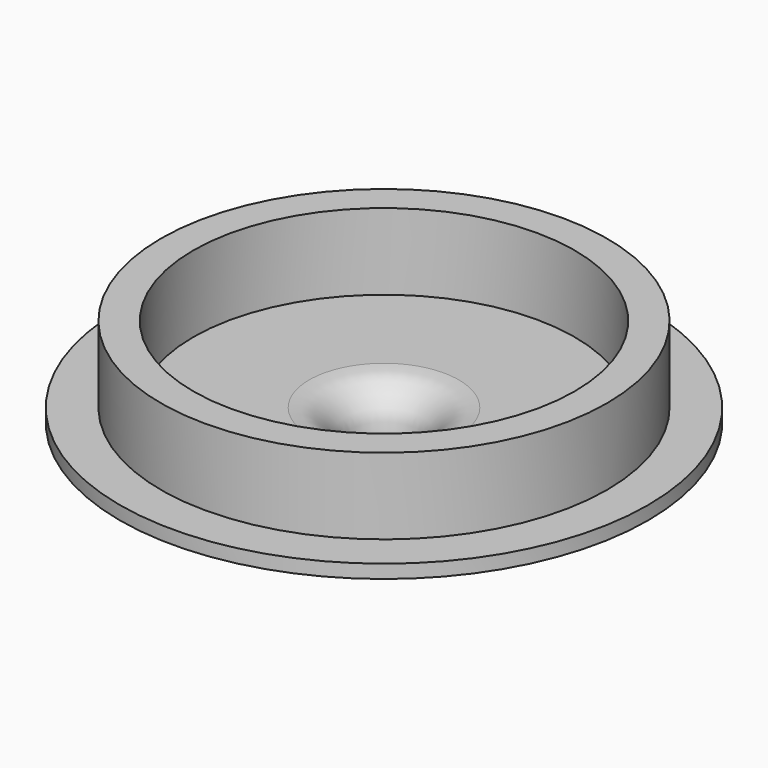
from build123d import *

# Parameters (mm, degrees)
F0_R     = 22.5
F0_R_2   = 19
F0_R_3   = 16.25
F0_R_4   = 1
F0_R_5   = 11
F0_R_6   = 10
F0_R_7   = 8
F0_R_8   = 6.4
F0_R_9   = 3.8
F0_R_10  = 2.875
F1_DEPTH = 1.15
F2_DEPTH = 7.65
F3_DEPTH = 3.5
F4_DEPTH = 3.1
F5_DEPTH = 5.4
F6_DEPTH = 8.8
F7_R     = 3.5


with BuildPart() as f1:
    # F0 (on Top) → F1 (new body)
    with BuildSketch(Plane.XY):
        Circle(F0_R)
        Circle(F0_R_2, mode=Mode.SUBTRACT)
        Circle(F0_R_2)
        Circle(F0_R_3, mode=Mode.SUBTRACT)
        Circle(F0_R_3)
        with BuildLine():
            ThreePointArc((8.26016, -11.550314), (0, -14.2), (-8.26016, -11.550314))
            ThreePointArc((-8.26016, -11.550314), (-10.960155, -10.960155), (-11.550314, -8.26016))
            ThreePointArc((-11.550314, -8.26016), (-14.2, 0), (-11.550314, 8.26016))
            ThreePointArc((-11.550314, 8.26016), (-10.960155, 10.960155), (-8.26016, 11.550314))
            ThreePointArc((-8.26016, 11.550314), (0, 14.2), (8.26016, 11.550314))
            ThreePointArc((8.26016, 11.550314), (10.960155, 10.960155), (11.550314, 8.26016))
            ThreePointArc((11.550314, 8.26016), (14.2, 0), (11.550314, -8.26016))
            ThreePointArc((11.550314, -8.26016), (10.960155, -10.960155), (8.26016, -11.550314))
        make_face(mode=Mode.SUBTRACT)
        with BuildLine():
            ThreePointArc((-11.550314, -8.26016), (-10.960155, -10.960155), (-8.26016, -11.550314))
            ThreePointArc((-8.26016, -11.550314), (0, -14.2), (8.26016, -11.550314))
            ThreePointArc((8.26016, -11.550314), (10.960155, -10.960155), (11.550314, -8.26016))
            ThreePointArc((11.550314, -8.26016), (14.2, 0), (11.550314, 8.26016))
            ThreePointArc((11.550314, 8.26016), (10.960155, 10.960155), (8.26016, 11.550314))
            ThreePointArc((8.26016, 11.550314), (0, 14.2), (-8.26016, 11.550314))
            ThreePointArc((-8.26016, 11.550314), (-10.960155, 10.960155), (-11.550314, 8.26016))
            ThreePointArc((-11.550314, 8.26016), (-14.2, 0), (-11.550314, -8.26016))
        make_face()
        with Locations((-9.15, -9.15)):
            Circle(F0_R_4, mode=Mode.SUBTRACT)
        with Locations((9.15, -9.15)):
            Circle(F0_R_4, mode=Mode.SUBTRACT)
        with Locations((-9.15, 9.15)):
            Circle(F0_R_4, mode=Mode.SUBTRACT)
        Circle(F0_R_5, mode=Mode.SUBTRACT)
        with Locations((9.15, 9.15)):
            Circle(F0_R_4, mode=Mode.SUBTRACT)
        Circle(F0_R_5)
        Circle(F0_R_6, mode=Mode.SUBTRACT)
        Circle(F0_R_6)
        Circle(F0_R_7, mode=Mode.SUBTRACT)
        Circle(F0_R_7)
        Circle(F0_R_8, mode=Mode.SUBTRACT)
        with Locations((-9.15, 9.15)):
            Circle(F0_R_4)
        with Locations((9.15, 9.15)):
            Circle(F0_R_4)
        with Locations((9.15, -9.15)):
            Circle(F0_R_4)
        with Locations((-9.15, -9.15)):
            Circle(F0_R_4)
        Circle(F0_R_8)
        Circle(F0_R_9, mode=Mode.SUBTRACT)
        Circle(F0_R_9)
        Circle(F0_R_10, mode=Mode.SUBTRACT)
    extrude(amount=F1_DEPTH)

    # F0 (on Top) → F2 (join)
    with BuildSketch(Plane.XY):
        Circle(F0_R_2)
        Circle(F0_R_3, mode=Mode.SUBTRACT)
    extrude(amount=F2_DEPTH)

    # F0 (on Top) → F3 (join)
    with BuildSketch(Plane.XY):
        with BuildLine():
            ThreePointArc((-11.550314, -8.26016), (-10.960155, -10.960155), (-8.26016, -11.550314))
            ThreePointArc((-8.26016, -11.550314), (0, -14.2), (8.26016, -11.550314))
            ThreePointArc((8.26016, -11.550314), (10.960155, -10.960155), (11.550314, -8.26016))
            ThreePointArc((11.550314, -8.26016), (14.2, 0), (11.550314, 8.26016))
            ThreePointArc((11.550314, 8.26016), (10.960155, 10.960155), (8.26016, 11.550314))
            ThreePointArc((8.26016, 11.550314), (0, 14.2), (-8.26016, 11.550314))
            ThreePointArc((-8.26016, 11.550314), (-10.960155, 10.960155), (-11.550314, 8.26016))
            ThreePointArc((-11.550314, 8.26016), (-14.2, 0), (-11.550314, -8.26016))
        make_face()
        with Locations((-9.15, -9.15)):
            Circle(F0_R_4, mode=Mode.SUBTRACT)
        with Locations((9.15, -9.15)):
            Circle(F0_R_4, mode=Mode.SUBTRACT)
        with Locations((-9.15, 9.15)):
            Circle(F0_R_4, mode=Mode.SUBTRACT)
        Circle(F0_R_5, mode=Mode.SUBTRACT)
        with Locations((9.15, 9.15)):
            Circle(F0_R_4, mode=Mode.SUBTRACT)
        Circle(F0_R_6)
        Circle(F0_R_7, mode=Mode.SUBTRACT)
    extrude(amount=-F3_DEPTH)

    # F0 (on Top) → F4 (join)
    with BuildSketch(Plane.XY):
        Circle(F0_R_5)
        Circle(F0_R_6, mode=Mode.SUBTRACT)
    extrude(amount=-F4_DEPTH)

    # F0 (on Top) → F5 (join)
    with BuildSketch(Plane.XY):
        Circle(F0_R_7)
        Circle(F0_R_8, mode=Mode.SUBTRACT)
        Circle(F0_R_8)
        Circle(F0_R_9, mode=Mode.SUBTRACT)
    extrude(amount=-F5_DEPTH)

    # F0 (on Top) → F6 (join)
    with BuildSketch(Plane.XY):
        Circle(F0_R_9)
        Circle(F0_R_10, mode=Mode.SUBTRACT)
    extrude(amount=-F6_DEPTH)

    # F7
    f7_edges = [f1.edges().sort_by_distance(p)[0] for p in [
        (-2.875, 0, 1.15),
    ]]
    fillet(f7_edges, radius=F7_R)


solid = f1.part
